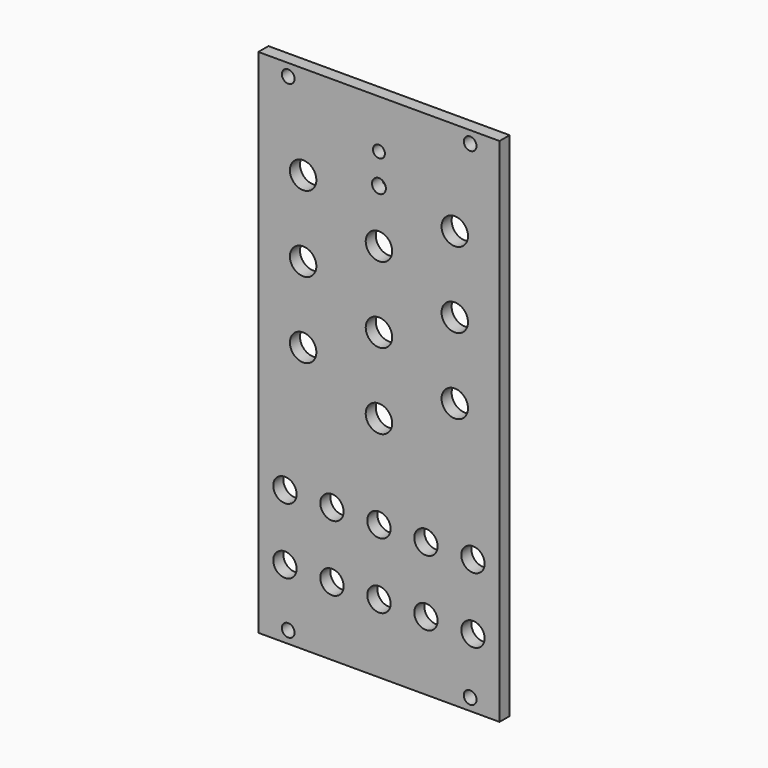
from build123d import *

# Parameters (mm, degrees)
F0_W     = 60.6
F0_H     = 128.5
F1_DEPTH = 3.175
F3_D     = 3.2
F5_D     = 5.87
F6_D     = 6.65
F7_D     = 3
F8_D     = 3.5


with BuildPart() as f1:
    # F0 (on Front) → F1 (new body)
    with BuildSketch(Plane.XZ):
        with Locations((0, 8.218851)):
            Rectangle(F0_W, F0_H)
    extrude(amount=F1_DEPTH)

    # F3 (through all)
    with Locations(Plane.XZ.offset(3.175)):
        with Locations((-22.8, -53.031149), (22.92, -53.031149), (22.92, 69.468851), (-22.8, 69.468851)):
            Hole(F3_D / 2)

    # F5 (through all)
    with Locations(Plane.XZ.offset(3.175)):
        with Locations((-23.622, -38.771149), (-23.622, -22.261149), (-11.811, -22.261149), (-11.811, -38.771149), (0, -22.261149), (0, -38.771149), (11.811, -22.261149), (11.811, -38.771149), (23.622, -22.261149), (23.622, -38.771149)):
            Hole(F5_D / 2)

    # F6 (through all)
    with Locations(Plane.XZ.offset(3.175)):
        with Locations((-19.05, 48.858851), (0, 39.333851), (19.05, 48.858851), (-19.05, 29.808851), (0, 20.283851), (19.05, 29.808851), (-19.05, 10.758851), (0, 1.233851), (19.05, 10.758851)):
            Hole(F6_D / 2)

    # F7 (through all)
    with Locations(Plane.XZ.offset(3.175)):
        with Locations((0, 60.288851)):
            Hole(F7_D / 2)

    # F8 (through all)
    with Locations(Plane.XZ.offset(3.175)):
        with Locations((0, 52.668851)):
            Hole(F8_D / 2)


solid = f1.part
